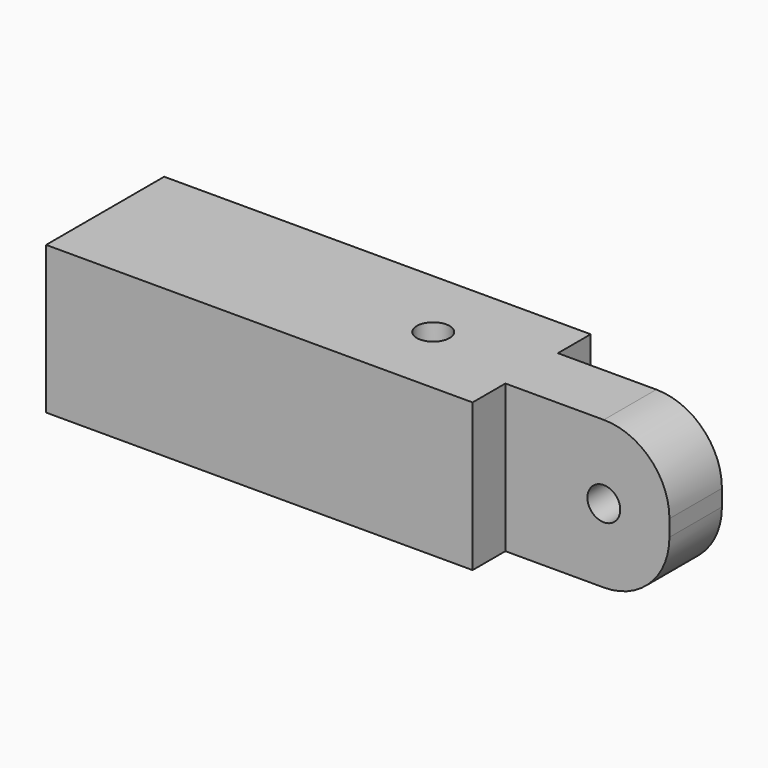
from build123d import *

# Parameters (mm, degrees)
F0_W     = 45
F0_H     = 45
F1_DEPTH = 65
F2_R     = 5
F3_DEPTH = 45.001
F4_W     = 20
F4_H     = 45
F5_DEPTH = 50
F6_R     = 20
F7_R     = 5
F8_DEPTH = 25


with BuildPart() as f1:
    # F0 (on Right) → F1 (new body, symmetric)
    with BuildSketch(Plane.YZ):
        with Locations((-22.5, 22.5)):
            Rectangle(F0_W, F0_H)
    extrude(amount=F1_DEPTH, both=True)

    # F2 (on face) → F3 (cut, through all)
    with BuildSketch(Plane.XY.offset(45)):
        with Locations((35, -22.5)):
            Circle(F2_R)
    extrude(amount=-F3_DEPTH, mode=Mode.SUBTRACT)

    # F4 (on face) → F5 (join)
    with BuildSketch(Plane.YZ.offset(65)):
        with Locations((-22.5, 22.5)):
            Rectangle(F4_W, F4_H)
    extrude(amount=F5_DEPTH)

    # F6
    f6_edges = [f1.edges().sort_by_distance(p)[0] for p in [
        (115, -22.5, 45),
        (115, -22.5, 0),
    ]]
    fillet(f6_edges, radius=F6_R)

    # F7 (on face) → F8 (cut)
    with BuildSketch(Plane.XZ.offset(32.5)):
        with Locations((95, 22.5)):
            Circle(F7_R)
    extrude(amount=-F8_DEPTH, mode=Mode.SUBTRACT)


solid = f1.part
